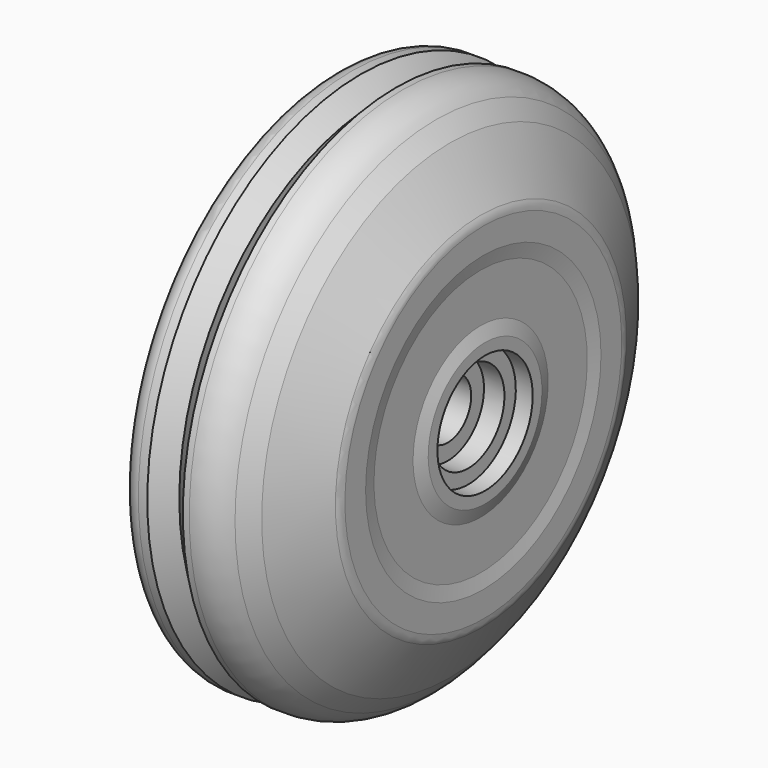
from build123d import *


with BuildPart() as f1:
    # F0 (on Front) → F1 (revolve)
    with BuildSketch(Plane.XZ):
        with BuildLine():
            Line((3, 30), (2, 30))
            ThreePointArc((2, 30), (0.585786, 29.414214), (0, 28))
            Line((0, 28), (0, 24.727681))
            ThreePointArc((0, 24.727681), (0.120536, 24.043856), (0.467617, 23.442457))
            Line((0.467617, 23.442457), (11.318639, 10.5047))
            ThreePointArc((11.318639, 10.5047), (11.737945, 8.782542), (10.624372, 7.403556))
            Line((10.624372, 7.403556), (0.580942, 2.768127))
            ThreePointArc((0.580942, 2.768127), (0.157665, 2.399121), (0, 1.860168))
            Line((0, 1.860168), (0, 0))
            Line((0, 0), (6.8, 0))
            Line((6.8, 0), (6.8, 3.3))
            Line((6.8, 3.3), (12.8, 3.3))
            Line((12.8, 3.3), (12.8, 5.1))
            Line((12.8, 5.1), (15.1, 5.1))
            Line((15.1, 5.1), (15.1, 6.7))
            Line((15.1, 6.7), (17, 6.7))
            Line((17, 6.7), (17, 8))
            Line((17, 8), (16.5, 9.5))
            Line((16.5, 9.5), (16.5, 15))
            Line((16.5, 15), (16.8, 16.552417))
            Line((16.8, 16.552417), (16.8, 19.464102))
            ThreePointArc((16.8, 19.464102), (16.731852, 19.98174), (16.532051, 20.464102))
            Line((16.532051, 20.464102), (13.056557, 26.483833))
            Line((13.056557, 26.483833), (11.494917, 28.280295))
            ThreePointArc((11.494917, 28.280295), (9.794835, 29.549806), (7.721369, 30))
            Line((7.721369, 30), (7, 30))
            Line((7, 30), (5, 28))
            Line((5, 28), (3, 30))
        make_face()
    revolve(axis=Axis((3.4, 0, 0), (-1, 0, 0)))


solid = f1.part
